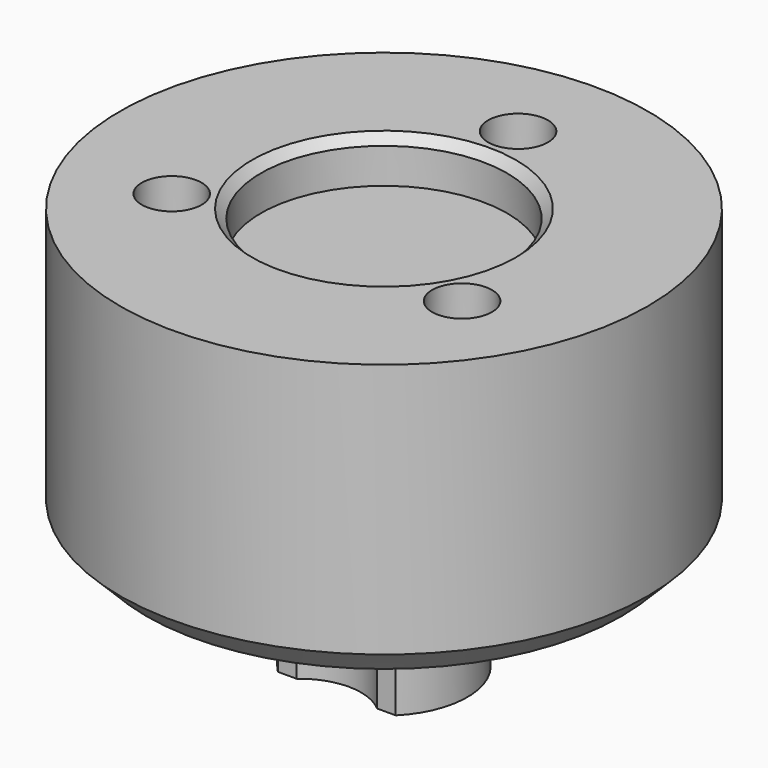
from build123d import *

# Parameters (mm, degrees)
SKETCH_R        = 15
SKETCH_R_2      = 1.7
PAD_DEPTH       = 16
PAD001_DEPTH    = 6.9
SKETCH006_R     = 3.5
POCKET003_DEPTH = 6.9
SKETCH003_R     = 1.5
POCKET004_DEPTH = 17.3
SKETCH008_R     = 7
POCKET_DEPTH    = 2.5
SKETCH009_R     = 3.5
POCKET005_DEPTH = 10
CHAMFER_SIZE    = 1.5
CHAMFER001_SIZE = 1.7
CHAMFER002_SIZE = 1.7
CHAMFER003_SIZE = 1.7
CHAMFER004_SIZE = 0.5


with BuildPart() as part:
    # Sketch → Pad (new body)
    with BuildSketch(Plane.XY):
        Circle(SKETCH_R)
        with Locations((0, 9.526279)):
            Circle(SKETCH_R_2, mode=Mode.SUBTRACT)
        with Locations((-8.25, -4.76314)):
            Circle(SKETCH_R_2, mode=Mode.SUBTRACT)
        with Locations((8.25, -4.76314)):
            Circle(SKETCH_R_2, mode=Mode.SUBTRACT)
    extrude(amount=PAD_DEPTH)

    # Sketch004 → Pad001 (new body)
    with BuildSketch(Plane(origin=(0, 0, 0), x_dir=(1, 0, 0), z_dir=(0, 0, -1))):
        with BuildLine():
            Line((-3.35, 3.35), (3.35, 3.35))
            ThreePointArc((3.35, -3.35), (4.737615, 0), (3.35, 3.35))
            Line((3.35, -3.35), (-3.35, -3.35))
            ThreePointArc((-3.35, 3.35), (-4.737615, 0), (-3.35, -3.35))
        make_face()
    extrude(amount=PAD001_DEPTH)

    # Sketch006 → Pocket003 (cut)
    with BuildSketch(Plane(origin=(0, 0, -6.9), x_dir=(1, 0, 0), z_dir=(0, 0, -1))):
        with Locations((0, 6)):
            Circle(SKETCH006_R)
        with Locations((0, -6)):
            Circle(SKETCH006_R)
    extrude(amount=-POCKET003_DEPTH, mode=Mode.SUBTRACT)

    # Sketch003 → Pocket004 (cut)
    with BuildSketch(Plane(origin=(0, 0, -6.9), x_dir=(1, 0, 0), z_dir=(0, 0, -1))):
        Circle(SKETCH003_R)
    extrude(amount=-POCKET004_DEPTH, mode=Mode.SUBTRACT)

    # Sketch008 → Pocket (cut)
    with BuildSketch(Plane.XY.offset(16)):
        Circle(SKETCH008_R)
    extrude(amount=-POCKET_DEPTH, mode=Mode.SUBTRACT)

    # Sketch009 → Pocket005 (cut)
    with BuildSketch(Plane(origin=(0, 0, 0), x_dir=(1, 0, 0), z_dir=(0, 0, -1))):
        with Locations((8.25, 4.76314)):
            Circle(SKETCH009_R)
        with Locations((-8.25, 4.76314)):
            Circle(SKETCH009_R)
        with Locations((0, -9.526279)):
            Circle(SKETCH009_R)
    extrude(amount=-POCKET005_DEPTH, mode=Mode.SUBTRACT)

    # Chamfer
    chamfer_edges = [part.edges().sort_by_distance(p)[0] for p in [
        (-15, 0, 0),
    ]]
    chamfer(chamfer_edges, length=CHAMFER_SIZE)

    # Chamfer001
    chamfer001_edges = [part.edges().sort_by_distance(p)[0] for p in [
        (-9.95, -4.76314, 10),
    ]]
    chamfer(chamfer001_edges, length=CHAMFER001_SIZE)

    # Chamfer002
    chamfer002_edges = [part.edges().sort_by_distance(p)[0] for p in [
        (6.55, -4.76314, 10),
    ]]
    chamfer(chamfer002_edges, length=CHAMFER002_SIZE)

    # Chamfer003
    chamfer003_edges = [part.edges().sort_by_distance(p)[0] for p in [
        (-1.7, 9.526279, 10),
    ]]
    chamfer(chamfer003_edges, length=CHAMFER003_SIZE)

    # Chamfer004
    chamfer004_edges = [part.edges().sort_by_distance(p)[0] for p in [
        (-7, 0, 16),
    ]]
    chamfer(chamfer004_edges, length=CHAMFER004_SIZE)


solid = part.part
